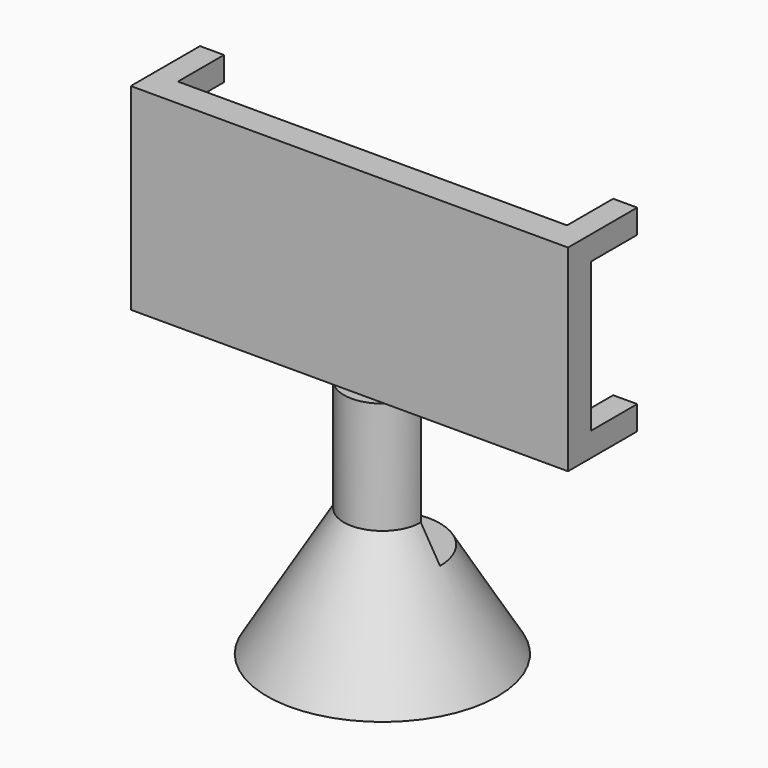
from build123d import *

# Parameters (mm, degrees)
F2_R      = 4
F3_DEPTH  = 25
F4_W      = 2.5
F4_H      = 2.5
F5_DEPTH  = 6
F6_DEPTH  = 3
F7_W      = 7.8000803478
F7_H      = 15
F8_DEPTH  = 23.7818172899
F9_DEPTH  = 25
F10_R     = 3
F11_DEPTH = 2


with BuildPart() as f1:
    # F0 (on Front) → F1 (revolve)
    with BuildSketch(Plane.XZ):
        Polygon((0, 20), (0, 0), (12, 0), align=None)
    revolve(axis=Axis((0, 0, 10), (0, 0, -1)))

    # F2 (on Top) → F3 (join)
    with BuildSketch(Plane.XY):
        Circle(F2_R)
    extrude(amount=F3_DEPTH)



with BuildPart() as f5:
    # F4 (on Front) → F5 (new body)
    with BuildSketch(Plane.XZ):
        with Locations((20.4691827101, 44.25)):
            Rectangle(F4_W, F4_H)
    extrude(amount=-F5_DEPTH)


with BuildPart() as f5b:
    # F4 (on Front) → F5, piece 2 (new body)
    with BuildSketch(Plane.XZ):
        with Locations((-22.5308172899, 26.25)):
            Rectangle(F4_W, F4_H)
    extrude(amount=-F5_DEPTH)


with BuildPart() as f5c:
    # F4 (on Front) → F5, piece 3 (new body)
    with BuildSketch(Plane.XZ):
        with Locations((-22.5308172899, 44.25)):
            Rectangle(F4_W, F4_H)
    extrude(amount=-F5_DEPTH)


with BuildPart() as f5d:
    # F4 (on Front) → F5, piece 4 (new body)
    with BuildSketch(Plane.XZ):
        with Locations((20.4691827101, 26.25)):
            Rectangle(F4_W, F4_H)
    extrude(amount=-F5_DEPTH)


with BuildPart() as f1_1:
    add(f1.part)

    add(f5.part)  # F6 merges F5

    add(f5b.part)  # F6 merges F5b

    add(f5c.part)  # F6 merges F5c

    add(f5d.part)  # F6 merges F5d
    # F4 (on Front) → F6 (join)
    with BuildSketch(Plane.XZ):
        with Locations((-22.5308172899, 44.25)):
            Rectangle(F4_W, F4_H)
        Polygon((19.2191827101, 45.5), (-21.2808172899, 45.5), (-21.2808172899, 43), (-23.7808172899, 43), (-23.7808172899, 27.5), (-21.2808172899, 27.5), (-21.2808172899, 25), (19.2191827101, 25), (19.2191827101, 27.5), (21.7191827101, 27.5), (21.7191827101, 43), (19.2191827101, 43), align=None)
        with Locations((20.4691827101, 44.25)):
            Rectangle(F4_W, F4_H)
        with Locations((-22.5308172899, 26.25)):
            Rectangle(F4_W, F4_H)
        with Locations((20.4691827101, 26.25)):
            Rectangle(F4_W, F4_H)
    extrude(amount=F6_DEPTH)

    # F7 (on Right) → F8 (cut, through all)
    with BuildSketch(Plane.YZ):
        with Locations((3.9000401739, 17.5)):
            Rectangle(F7_W, F7_H)
    extrude(amount=-F8_DEPTH, mode=Mode.SUBTRACT)

    # F7 (on Right) → F9 (cut)
    with BuildSketch(Plane.YZ):
        with Locations((3.9000401739, 17.5)):
            Rectangle(F7_W, F7_H)
    extrude(amount=F9_DEPTH, mode=Mode.SUBTRACT)

    # F10 (on Top) → F11 (cut)
    with BuildSketch(Plane.XY):
        Circle(F10_R)
    extrude(amount=F11_DEPTH, mode=Mode.SUBTRACT)


solid = f1_1.part
